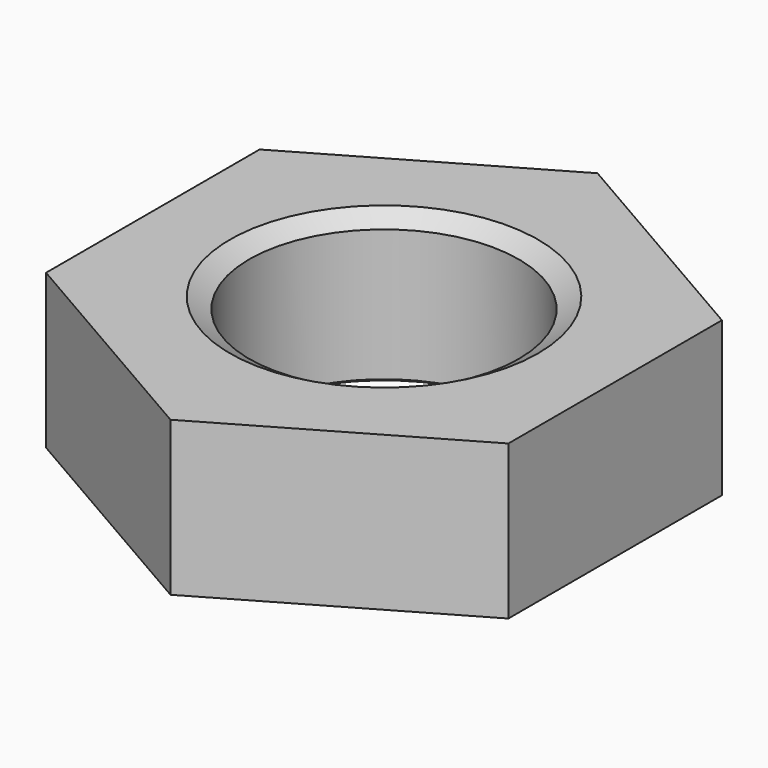
from build123d import *

# Parameters (mm, degrees)
SKETCH001_R  = 18
POCKET_DEPTH = 10


with BuildPart() as part:
    # Sketch → Revolution (revolve)
    with BuildSketch(Plane.XZ):
        Polygon((10, 0), (8.75, 0.721688), (8.75, 9.278312), (10, 10), (18, 10), (18, 0), align=None)
    revolve(axis=Axis((0, 0, 0), (0, 0, 1)))

    # Sketch001 → Pocket (cut)
    with BuildSketch(Plane(origin=(0, 0, 10), x_dir=(-1, 0, 0), z_dir=(0, 0, 1))):
        Circle(SKETCH001_R)
        Polygon((-15, 8.660254), (-15, -8.660254), (0, -17.320508), (15, -8.660254), (15, 8.660254), (0, 17.320508), align=None, mode=Mode.SUBTRACT)
    extrude(amount=-POCKET_DEPTH, mode=Mode.SUBTRACT)


solid = part.part
